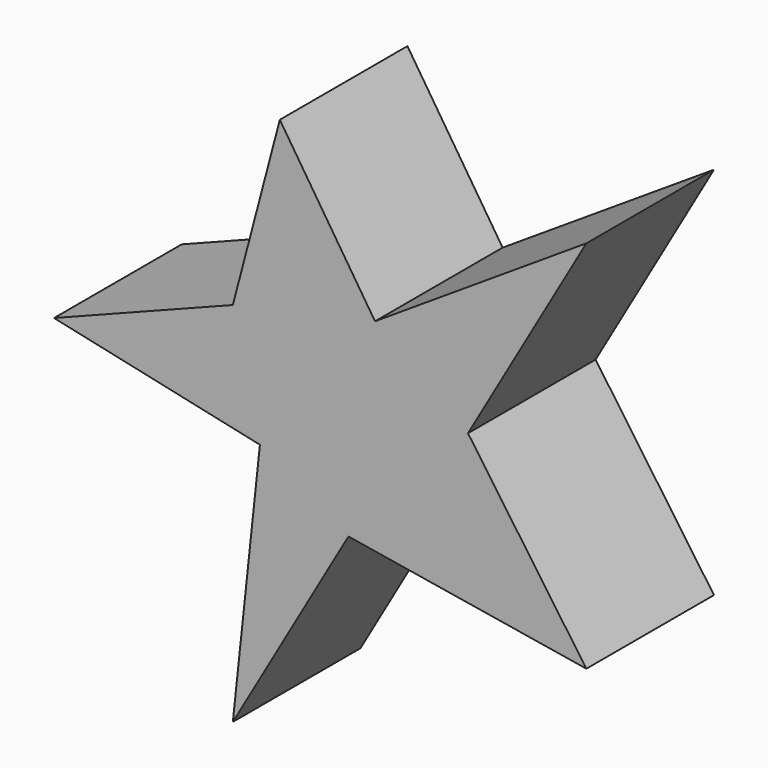
from build123d import *

# Parameters (mm, degrees)
F1_DEPTH = 25.4
F2_T     = -2.54


with BuildPart() as f1:
    # F0 (on Front) → F1 (new body)
    with BuildSketch(Plane.XZ):
        Polygon((15.157177113, 5.0804899074), (0, 28.4029003233), (0, -45.4445231952), (10.9272608534, -26.454931125), (48.8096907386, -32.682903111), (29.9618504941, -5.8029429056), (48.8096907386, 26.9511756652), align=None)
        Polygon((0, -45.4445231952), (0, 28.4029003233), (-7.4798503051, 0), (-35.9542183578, -11.0840788111), (-3.1724292785, -18.1879308075), (-7.4798503051, -58.4431426979), align=None)
    extrude(amount=F1_DEPTH)

    # F2
    f2_openings = [f1.faces().sort_by_distance(p)[0] for p in [
        (11.533171, 0, -9.565851),
    ]]
    offset(amount=F2_T, openings=f2_openings, kind=Kind.INTERSECTION)


solid = f1.part
